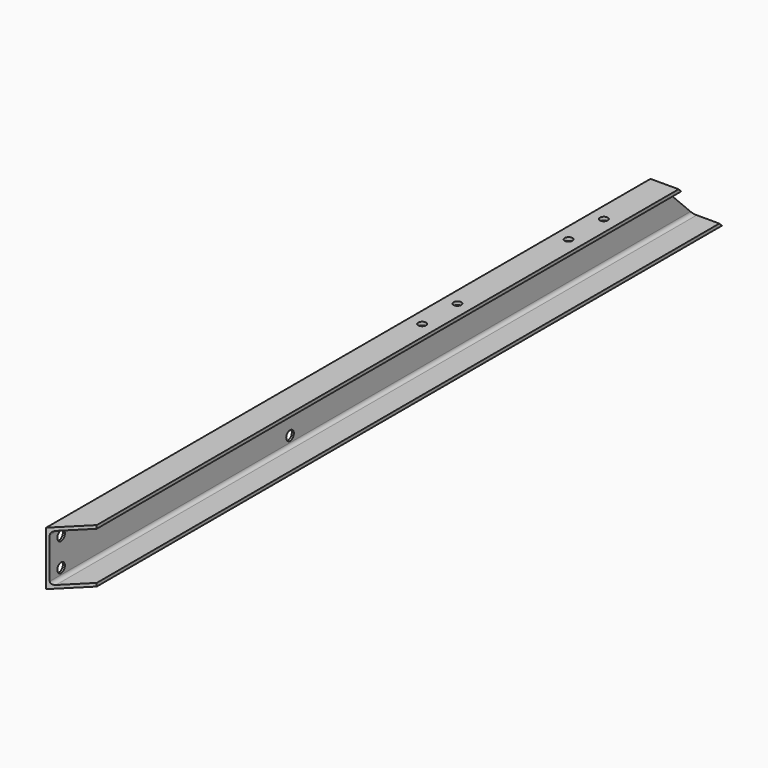
from build123d import *

# Parameters (mm, degrees)
F1_DEPTH  = 1870
F3_DEPTH  = 65.001
F5_DEPTH  = 125.001
F6_R      = 9
F7_DEPTH  = 7.5
F8_R      = 9
F9_DEPTH  = 7.5
F10_R     = 11
F11_DEPTH = 25


with BuildPart() as f1:
    # F0 (on Front) → F1 (new body)
    with BuildSketch(Plane.XZ):
        with BuildLine():
            Line((-25.16784, 62.5), (-25.16784, -62.5))
            Line((-25.16784, -62.5), (39.83216, -62.5))
            Line((39.83216, -62.5), (39.83216, -55))
            Line((39.83216, -55), (-12.46784, -55))
            ThreePointArc((-12.46784, -55), (-18.124695, -52.656854), (-20.46784, -47))
            Line((-20.46784, -47), (-20.46784, 47))
            ThreePointArc((-20.46784, 47), (-18.124695, 52.656854), (-12.46784, 55))
            Line((-12.46784, 55), (39.83216, 55))
            Line((39.83216, 55), (39.83216, 62.5))
            Line((39.83216, 62.5), (-25.16784, 62.5))
        make_face()
    extrude(amount=F1_DEPTH)

    # F2 (on face) → F3 (cut, through all)
    with BuildSketch(Plane(origin=(-25.16784, 0, 0), x_dir=(0, -1, 0), z_dir=(-1, 0, 0))):
        Polygon((125, 62.5), (0, 62.5), (0, -62.5), align=None)
    extrude(amount=-F3_DEPTH, mode=Mode.SUBTRACT)

    # F4 (on face) → F5 (cut, through all)
    with BuildSketch(Plane.XY.offset(62.5)):
        Polygon((-25.16784, -1870), (39.83216, -1870), (39.83216, -1805), align=None)
    extrude(amount=-F5_DEPTH, mode=Mode.SUBTRACT)

    # F6 (on face) → F7 (cut, through all)
    with BuildSketch(Plane.XY.offset(62.5)):
        with Locations((7.33216, -723)):
            Circle(F6_R)
        with Locations((7.33216, -825)):
            Circle(F6_R)
    extrude(amount=-F7_DEPTH, mode=Mode.SUBTRACT)

    # F8 (on face) → F9 (cut, through all)
    with BuildSketch(Plane.XY.offset(62.5)):
        with Locations((7.33216, -300)):
            Circle(F8_R)
        with Locations((7.33216, -402)):
            Circle(F8_R)
    extrude(amount=-F9_DEPTH, mode=Mode.SUBTRACT)

    # F10 (on face) → F11 (cut)
    with BuildSketch(Plane(origin=(-25.16784, 0, 0), x_dir=(0, -1, 0), z_dir=(-1, 0, 0))):
        with Locations((1832.5, 32.5)):
            Circle(F10_R)
        with Locations((1832.5, -32.5)):
            Circle(F10_R)
        with Locations((1171.5, 32.5)):
            Circle(F10_R)
        with Locations((1171.5, -32.5)):
            Circle(F10_R)
    extrude(amount=-F11_DEPTH, mode=Mode.SUBTRACT)


solid = f1.part
